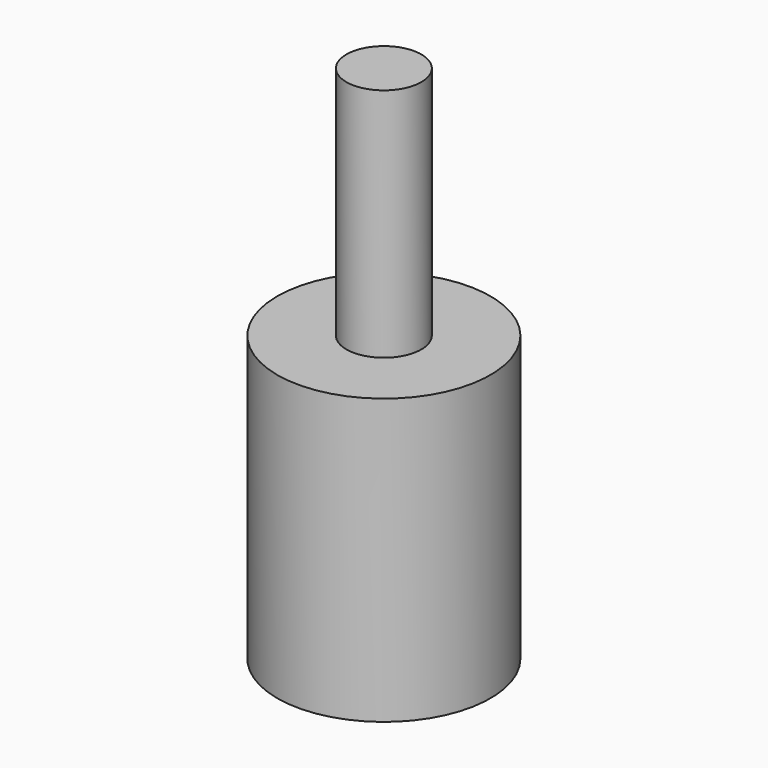
from build123d import *

# Parameters (mm, degrees)
F0_W     = 3.8553732447
F0_H     = 10.2907596156
F2_T     = -2.5
F3_DEPTH = 16.3


with BuildPart() as f1:
    # F0 (on Front) → F1 (revolve)
    with BuildSketch(Plane.XZ):
        Rectangle(F0_W, F0_H)
    revolve(axis=Axis((1.9276866224, 0, 0), (0, 0, -1)))

    # F2
    f2_openings = [f1.faces().sort_by_distance(p)[0] for p in [
        (1.927687, 0, 5.14538),
    ]]
    offset(amount=F2_T, openings=f2_openings)

    # F3 (add): a face of the model
    f3_faces = [f1.faces().sort_by_distance(p)[0] for p in [
        (1.9276866224, 0, -2.6453798078),
    ]]
    extrude(f3_faces, amount=F3_DEPTH)


solid = f1.part
